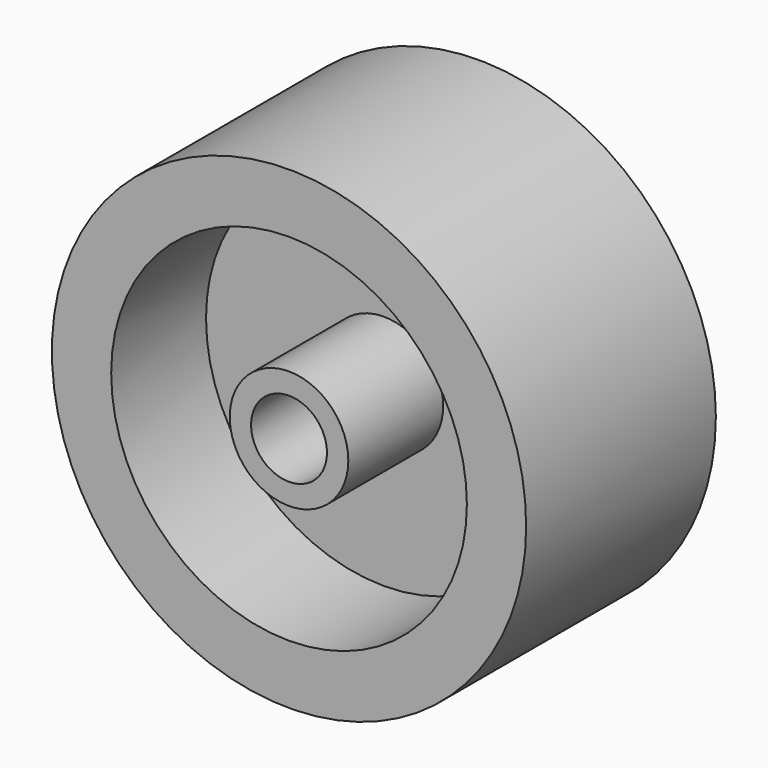
from build123d import *

# Parameters (mm, degrees)
F0_R     = 12.7
F1_DEPTH = 12.7
F2_R     = 9.525
F3_DEPTH = 6.35
F4_R     = 3.175
F5_DEPTH = 6.35
F6_R     = 2.032
F7_DEPTH = 6.35


with BuildPart() as f1:
    # F0 (on Front) → F1 (new body)
    with BuildSketch(Plane.XZ):
        Circle(F0_R)
    extrude(amount=F1_DEPTH)

    # F2 (on face) → F3 (cut)
    with BuildSketch(Plane.XZ.offset(12.7)):
        Circle(F2_R)
    extrude(amount=-F3_DEPTH, mode=Mode.SUBTRACT)

    # F4 (on face) → F5 (join, through all)
    with BuildSketch(Plane.XZ.offset(6.35)):
        Circle(F4_R)
    extrude(amount=F5_DEPTH)

    # F6 (on face) → F7 (cut, through all)
    with BuildSketch(Plane.XZ.offset(12.7)):
        Circle(F6_R)
    extrude(amount=-F7_DEPTH, mode=Mode.SUBTRACT)


solid = f1.part
